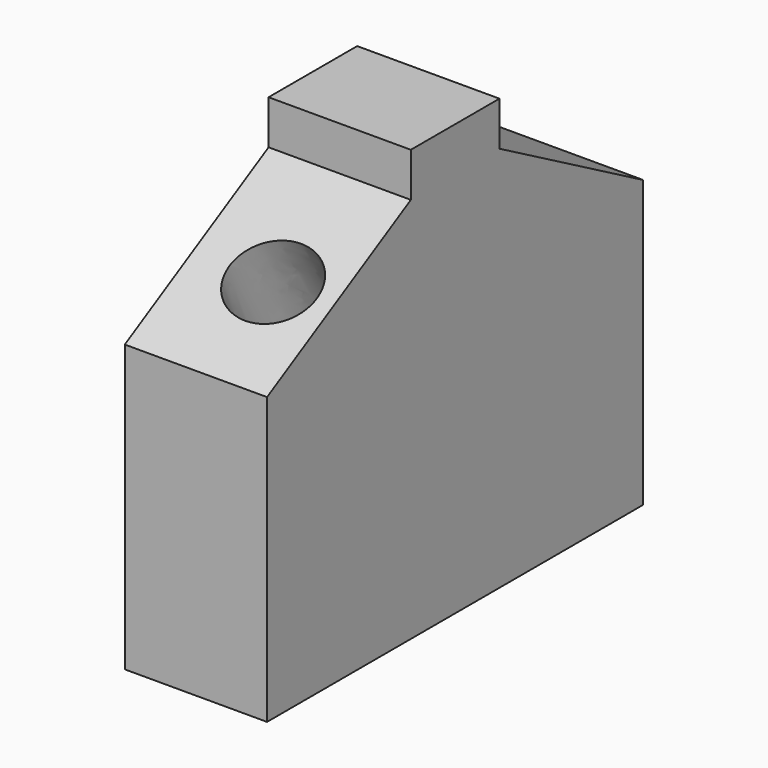
from build123d import *

# Parameters (mm, degrees)
F1_DEPTH = 25.4
F3_DEPTH = 99.314


with BuildPart() as f1:
    # F0 (on Right) → F1 (new body)
    with BuildSketch(Plane.YZ):
        Polygon((0, 51.3557270169), (-9.88774281, 51.3557270169), (-9.88774281, 43.4858873487), (-41.9724583626, 25.5265198648), (-41.9724583626, -25.5265198648), (0, -25.5265198648), (41.9724583626, -25.5265198648), (41.9724583626, 25.5265198648), (9.88774281, 43.4858873487), (9.88774281, 51.3557270169), align=None)
    extrude(amount=F1_DEPTH)

    # F2 (on face) → F3 (cut)
    with BuildSketch(Plane(origin=(0, -20.8930053431, 37.3257094981), x_dir=(1, 0, 0), z_dir=(0, -0.4884362121, 0.8725996027))):
        with BuildLine():
            add(Edge.make_bspline(
                [(6.659491919, -6.9608236663), (6.659491919, -19.3859712045), (18.3831579052, -13.1733974354), (30.1068238914, -6.9608236663), (18.3831579052, -0.7482498972), (6.659491919, 5.4643238719), (6.659491919, -6.9608236663)],
                knots=[0, 0, 0, 2.0943951024, 2.0943951024, 4.1887902048, 4.1887902048, 6.2831853072, 6.2831853072, 6.2831853072], degree=2, weights=[1, 0.5, 1, 0.5, 1, 0.5, 1]))
        make_face()
    extrude(amount=-F3_DEPTH, mode=Mode.SUBTRACT)


solid = f1.part
